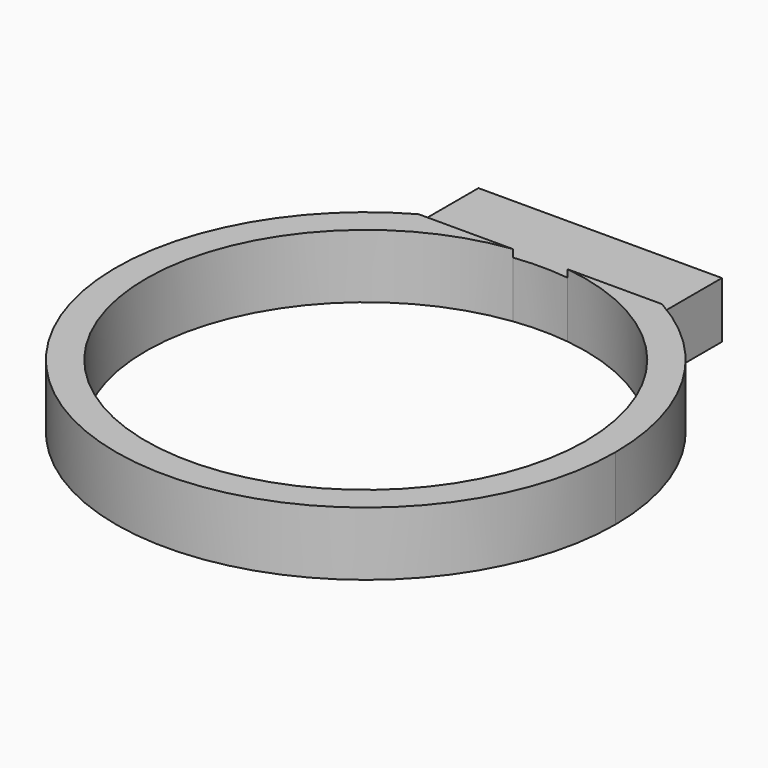
from build123d import *

# Parameters (mm, degrees)
F1_DEPTH = 2.25
F2_DEPTH = 2.55


with BuildPart() as f1:
    # F0 (on Top) → F1 (new body)
    with BuildSketch(Plane.XY):
        with BuildLine():
            ThreePointArc((-4.875, -1.5), (0, -0.2318236393), (4.875, -1.5))
            Line((4.875, -1.5), (4.875, 1.5))
            Line((4.875, 1.5), (-4.875, 1.5))
            Line((-4.875, 1.5), (-4.875, -1.5))
        make_face()
        with BuildLine():
            Line((1.0935325176, -1.5), (4.875, -1.5))
            ThreePointArc((4.875, -1.5), (0, -0.2318236393), (-4.875, -1.5))
            Line((-4.875, -1.5), (-1.0935325176, -1.5))
            ThreePointArc((-1.0935325176, -1.5), (0, -1.4318236393), (1.0935325176, -1.5))
        make_face()
    extrude(amount=F1_DEPTH)

    # F0 (on Top) → F2 (join)
    with BuildSketch(Plane.XY):
        with BuildLine():
            ThreePointArc((10.0040881804, -10.2359118196), (8.6270420829, -5.1707439823), (4.875, -1.5))
            Line((4.875, -1.5), (1.0935325176, -1.5))
            ThreePointArc((1.0935325176, -1.5), (6.6007395571, -4.4099178283), (8.8040881804, -10.2359118196))
            ThreePointArc((8.8040881804, -10.2359118196), (-5.8259939913, -16.8366513767), (-1.0935325176, -1.5))
            Line((-1.0935325176, -1.5), (-4.875, -1.5))
            ThreePointArc((-4.875, -1.5), (-5.0651678374, -18.8629539025), (10.0040881804, -10.2359118196))
        make_face()
    extrude(amount=F2_DEPTH)


solid = f1.part
